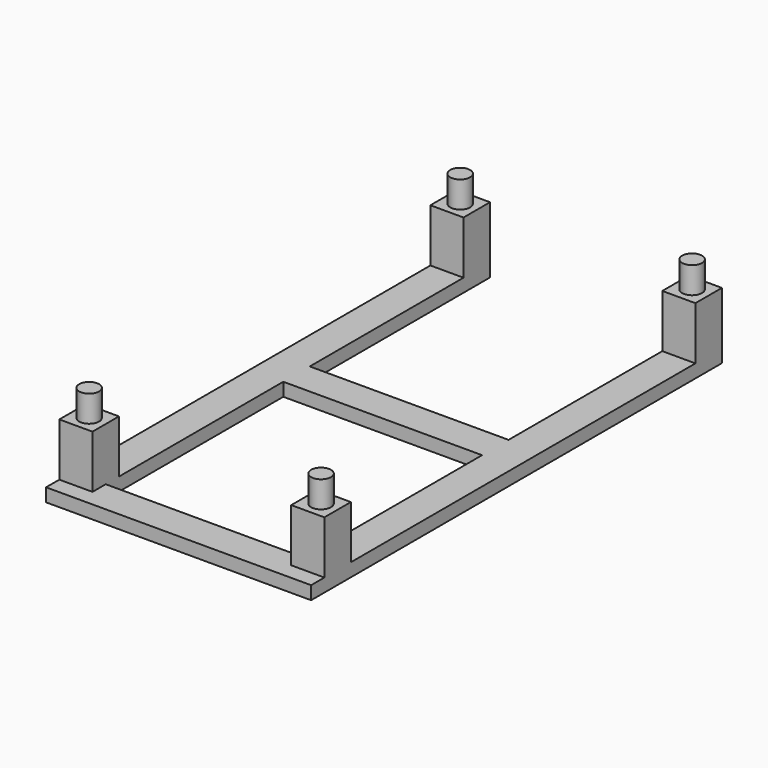
from build123d import *

# Parameters (mm, degrees)
F0_W     = 5
F0_H     = 29
F0_H_2   = 31
F0_H_3   = 5
F0_R     = 1.5
F0_W_2   = 30
F0_H_4   = 2.5
F1_DEPTH = 2
F2_DEPTH = 10
F3_DEPTH = 14


with BuildPart() as f1:
    # F0 (on Top) → F1 (new body)
    with BuildSketch(Plane.XY):
        Polygon((-20, -41), (20, -41), (20, -38.5), (15, -38.5), (-15, -38.5), (-20, -38.5), align=None)
        with Locations((-17.5, 17)):
            Rectangle(F0_W, F0_H)
        with Locations((-17.5, -18)):
            Rectangle(F0_W, F0_H_2)
        with Locations((-17.5, 0)):
            Rectangle(F0_W, F0_H_3)
        with Locations((17.5, 17)):
            Rectangle(F0_W, F0_H)
        with Locations((17.5, -18)):
            Rectangle(F0_W, F0_H_2)
        with Locations((17.5, 0)):
            Rectangle(F0_W, F0_H_3)
        with Locations((-17.5, 34)):
            Rectangle(F0_W, F0_H_3)
        with Locations((-17.5, 34)):
            Circle(F0_R, mode=Mode.SUBTRACT)
        with Locations((17.5, 34)):
            Rectangle(F0_W, F0_H_3)
        with Locations((17.5, 34)):
            Circle(F0_R, mode=Mode.SUBTRACT)
        Polygon((15, -38.5), (20, -38.5), (20, -33.5), (15, -33.5), (15, -36), align=None)
        with Locations((17.5, -36)):
            Circle(F0_R, mode=Mode.SUBTRACT)
        Polygon((-20, -33.5), (-20, -38.5), (-15, -38.5), (-15, -36), (-15, -33.5), align=None)
        with Locations((-17.5, -36)):
            Circle(F0_R, mode=Mode.SUBTRACT)
        with Locations((-17.5, 34)):
            Circle(F0_R)
        with Locations((17.5, 34)):
            Circle(F0_R)
        Rectangle(F0_W_2, F0_H_3)
        with Locations((-17.5, -36)):
            Circle(F0_R)
        with Locations((17.5, -36)):
            Circle(F0_R)
        with Locations((0, -37.25)):
            Rectangle(F0_W_2, F0_H_4)
    extrude(amount=F1_DEPTH)

    # F0 (on Top) → F2 (join)
    with BuildSketch(Plane.XY):
        with Locations((17.5, 34)):
            Rectangle(F0_W, F0_H_3)
        with Locations((17.5, 34)):
            Circle(F0_R, mode=Mode.SUBTRACT)
        with Locations((17.5, 34)):
            Circle(F0_R)
        with Locations((-17.5, 34)):
            Rectangle(F0_W, F0_H_3)
        with Locations((-17.5, 34)):
            Circle(F0_R, mode=Mode.SUBTRACT)
        with Locations((-17.5, 34)):
            Circle(F0_R)
        Polygon((15, -38.5), (20, -38.5), (20, -33.5), (15, -33.5), (15, -36), align=None)
        with Locations((17.5, -36)):
            Circle(F0_R, mode=Mode.SUBTRACT)
        with Locations((17.5, -36)):
            Circle(F0_R)
        Polygon((-20, -33.5), (-20, -38.5), (-15, -38.5), (-15, -36), (-15, -33.5), align=None)
        with Locations((-17.5, -36)):
            Circle(F0_R, mode=Mode.SUBTRACT)
        with Locations((-17.5, -36)):
            Circle(F0_R)
    extrude(amount=F2_DEPTH)

    # F0 (on Top) → F3 (join)
    with BuildSketch(Plane.XY):
        with Locations((17.5, 34)):
            Circle(F0_R)
        with Locations((-17.5, 34)):
            Circle(F0_R)
        with Locations((17.5, -36)):
            Circle(F0_R)
        with Locations((-17.5, -36)):
            Circle(F0_R)
    extrude(amount=F3_DEPTH)


solid = f1.part
